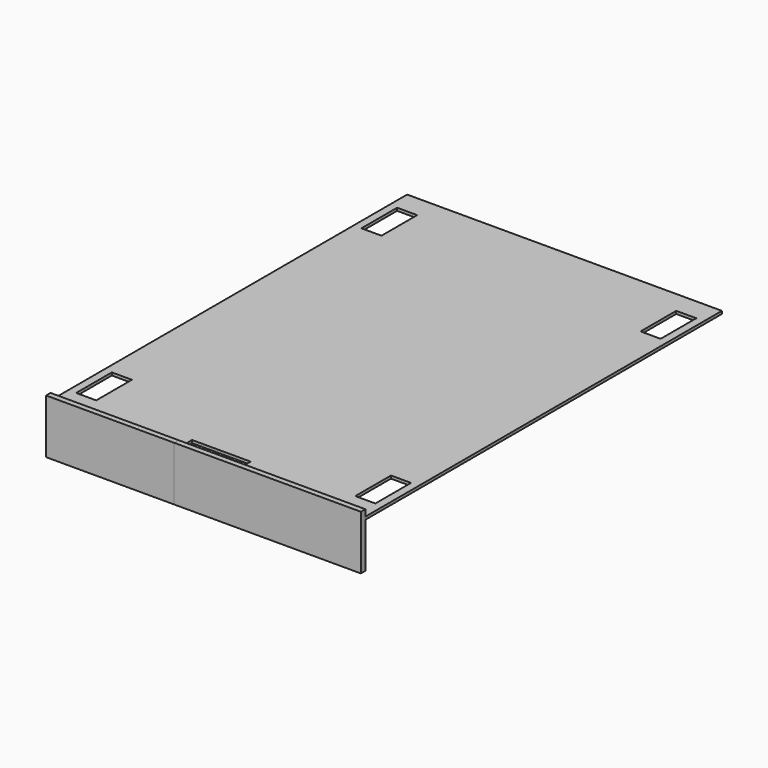
from build123d import *

# Parameters (mm, degrees)
F0_W     = 146.05
F0_H     = 61.9125
F0_W_2   = 212.725
F1_DEPTH = 6.35
F2_DEPTH = 6.35
F3_W     = 146.05
F3_H     = 508
F3_W_2   = 22.86
F3_H_2   = 50.8
F4_DEPTH = 1.5875
F5_W     = 22.86
F5_H     = 50.8
F6_DEPTH = 3.175


with BuildPart() as f1:
    # F0 (on Front) → F1 (new body)
    with BuildSketch(Plane.XZ):
        with Locations((43.9746357441, -20.2918192999)):
            Rectangle(F0_W, F0_H)
        with Locations((223.3621357441, -20.2918192999)):
            Rectangle(F0_W_2, F0_H)
    extrude(amount=F1_DEPTH)


with BuildPart() as f2:
    # F0 (on Front) → F2 (new body)
    with BuildSketch(Plane.XZ):
        with Locations((43.9746357441, -20.2918192999)):
            Rectangle(F0_W, F0_H)
    extrude(amount=F2_DEPTH)


with BuildPart() as f4:
    # F3 (on Top) → F4 (new body)
    with BuildSketch(Plane.XY):
        with Locations((43.9746357441, 254)):
            Rectangle(F3_W, F3_H)
        with Locations((-8.7303642559, 50.8)):
            Rectangle(F3_W_2, F3_H_2, mode=Mode.SUBTRACT)
        with Locations((-8.7303642559, 457.2)):
            Rectangle(F3_W_2, F3_H_2, mode=Mode.SUBTRACT)
    extrude(amount=F4_DEPTH)


with BuildPart() as f6:
    # F5 (on Top) → F6 (new body)
    with BuildSketch(Plane.XY):
        Polygon((-29.0503642559, 508), (-29.0503642559, 0), (116.9996357441, 0), (116.9996357441, 19.05), (183.6746357441, 19.05), (183.6746357441, 0), (329.7246357441, 0), (329.7246357441, 508), align=None)
        with Locations((-8.7303642559, 50.8)):
            Rectangle(F5_W, F5_H, mode=Mode.SUBTRACT)
        with Locations((309.4046357441, 50.8)):
            Rectangle(F5_W, F5_H, mode=Mode.SUBTRACT)
        with Locations((-8.7303642559, 457.2)):
            Rectangle(F5_W, F5_H, mode=Mode.SUBTRACT)
        with Locations((309.4046357441, 457.2)):
            Rectangle(F5_W, F5_H, mode=Mode.SUBTRACT)
    extrude(amount=F6_DEPTH)


solid = Compound([f1.part, f2.part, f4.part, f6.part])
